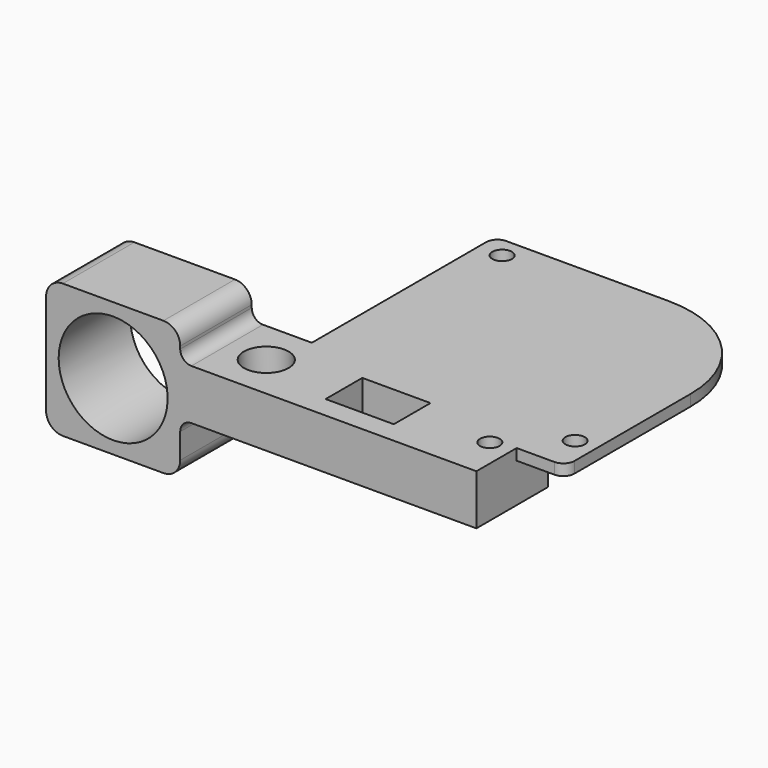
from build123d import *

# Parameters (mm, degrees)
F0_R            = 1.75
F0_W            = 12.2
F0_H            = 8.2
F1_DEPTH        = 9
F2_R            = 9.75
F3_DEPTH        = 16
F4_R            = 3
F6_R            = 2
F7_R            = 1.75
F8_DEPTH        = 2
F9_DEPTH        = 2
F10_R           = 2
F11_R           = 20
F13_D           = 3.5
F13_CBORE_D     = 8
F13_CBORE_DEPTH = 5


with BuildPart() as f1:
    # F0 (on Top) → F1 (new body)
    with BuildSketch(Plane.XY):
        Polygon((19.6991001874, -8.9786109865), (-33.3008998126, -8.9786109865), (-33.3008998126, -24.9786109865), (-24.3008998126, -24.9786109865), (19.6991001874, -24.9786109865), align=None)
        with Locations((-24.3008998126, -16.9786109865)):
            Circle(F0_R, mode=Mode.SUBTRACT)
        with Locations((-4.3008998126, -16.9786109865)):
            Rectangle(F0_W, F0_H, mode=Mode.SUBTRACT)
        with Locations((15.6991001874, -16.9786109865)):
            Circle(F0_R, mode=Mode.SUBTRACT)
    extrude(amount=F1_DEPTH)


with BuildPart() as f3:
    # F2 (on face) → F3 (new body)
    with BuildSketch(Plane(origin=(0, -8.9786109865, 0), x_dir=(-1, 0, 0), z_dir=(0, 1, 0))):
        Polygon((33.3008998126, 9), (33.3008998126, 0), (33.3008998126, -9.5), (57.3008998126, -9.5), (57.3008998126, 14.5), (33.3008998126, 14.5), align=None)
        with Locations((45.3008998126, 2.5)):
            Circle(F2_R, mode=Mode.SUBTRACT)
    extrude(amount=-F3_DEPTH)

    # F4
    f4_edges = [f3.edges().sort_by_distance(p)[0] for p in [
        (-33.3009, -16.978611, 14.5),
        (-57.3009, -16.978611, 14.5),
        (-57.3009, -16.978611, -9.5),
        (-33.3009, -16.978611, -9.5),
    ]]
    fillet(f4_edges, radius=F4_R)


with BuildPart() as f1_1:
    add(f1.part)

    # F5: union F3
    add(f3.part)

    # F6
    f6_edges = [f1_1.edges().sort_by_distance(p)[0] for p in [
        (-33.3009, -16.978611, 0),
        (-33.3009, -16.978611, 9),
    ]]
    fillet(f6_edges, radius=F6_R)

    # F7 (on face) → F8 (join)
    with BuildSketch(Plane.XY.offset(9)):
        Polygon((19.6991001874, -8.9786109865), (19.6991001874, -15.9786109865), (28.4491001874, -15.9786109865), (28.4491001874, 32.0213890135), (-22.5508998126, 32.0213890135), (-22.5508998126, -8.9786109865), align=None)
        with Locations((24.6991001874, -9.1451848542)):
            Circle(F7_R, mode=Mode.SUBTRACT)
        with Locations((-18.3008998126, 28.2713890135)):
            Circle(F7_R, mode=Mode.SUBTRACT)
        with Locations((-18.3008998126, 28.2713890135)):
            Circle(F7_R)
        with Locations((24.6991001874, -9.1451848542)):
            Circle(F7_R)
    extrude(amount=-F8_DEPTH)

    # F7 (on face) → F9 (cut, through all)
    with BuildSketch(Plane.XY.offset(9)):
        with Locations((-18.3008998126, 28.2713890135)):
            Circle(F7_R)
        with Locations((24.6991001874, -9.1451848542)):
            Circle(F7_R)
    extrude(amount=-F9_DEPTH, mode=Mode.SUBTRACT)

    # F10
    f10_edges = [f1_1.edges().sort_by_distance(p)[0] for p in [
        (-22.5509, 32.021389, 8),
        (28.4491, -15.978611, 8),
    ]]
    fillet(f10_edges, radius=F10_R)

    # F11
    f11_edges = [f1_1.edges().sort_by_distance(p)[0] for p in [
        (28.4491, 32.021389, 8),
    ]]
    fillet(f11_edges, radius=F11_R)

    # F13 (through all)
    with Locations(Plane.XY.offset(9)):
        with Locations((-24.3008998126, -16.9786109865)):
            CounterBoreHole(F13_D / 2, F13_CBORE_D / 2, F13_CBORE_DEPTH)


solid = f1_1.part
